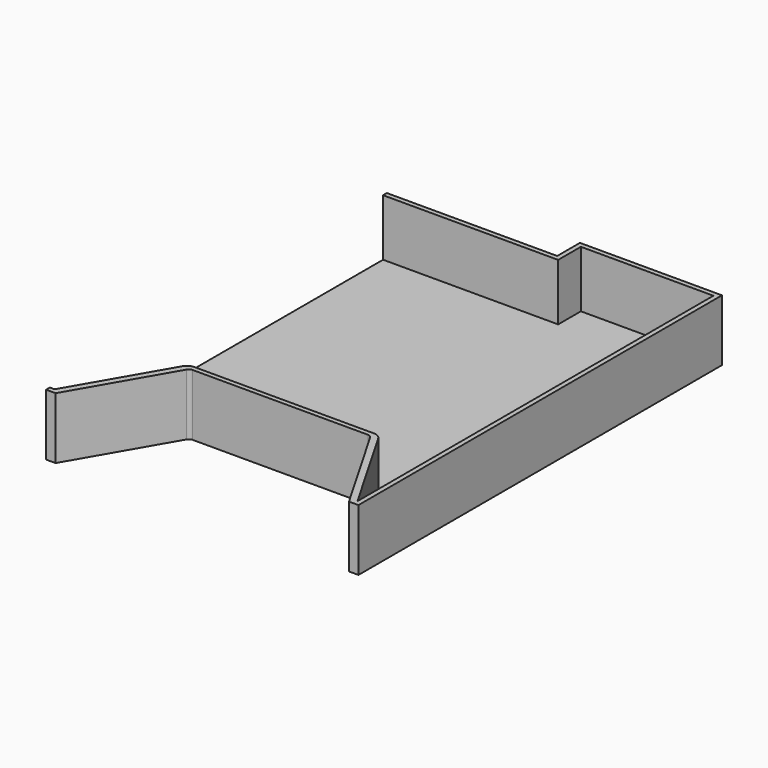
from build123d import *

# Parameters (mm, degrees)
F1_DEPTH = 165.1
F2_DEPTH = 12.7
F0_W     = 12.7
F0_H     = 1117.6
F3_DEPTH = 12.7


with BuildPart() as f1:
    # F0 (on Top) → F1 (new body)
    with BuildSketch(Plane.XY):
        with BuildLine():
            Line((342.9, -361.927737), (368.3, -361.927737))
            Line((368.3, -361.927737), (368.3, 857.272263))
            Line((368.3, 857.272263), (-12.7, 857.272263))
            Line((-12.7, 857.272263), (-12.7, 781.072263))
            Line((-12.7, 781.072263), (-469.9, 781.072263))
            Line((-469.9, 781.072263), (-469.9, 768.372263))
            Line((-469.9, 768.372263), (-457.2, 768.372263))
            Line((-457.2, 768.372263), (0, 768.372263))
            Line((0, 768.372263), (0, 819.172263))
            Line((0, 819.172263), (0, 844.572263))
            Line((0, 844.572263), (355.6, 844.572263))
            Line((355.6, 844.572263), (355.6, -349.227737))
            Line((355.6, -349.227737), (211.822605, -100.197983))
            ThreePointArc((211.822605, -100.197983), (202.52556, -90.900938), (189.82556, -87.497983))
            Line((189.82556, -87.497983), (-291.42556, -87.497983))
            ThreePointArc((-291.42556, -87.497983), (-304.12556, -90.900938), (-313.422605, -100.197983))
            Line((-313.422605, -100.197983), (-457.2, -349.227737))
            Line((-457.2, -349.227737), (-469.9, -349.227737))
            Line((-469.9, -349.227737), (-469.9, -361.927737))
            Line((-469.9, -361.927737), (-444.5, -361.927737))
            Line((-444.5, -361.927737), (-297.056431, -106.547983))
            ThreePointArc((-297.056431, -106.547983), (-292.407908, -101.899461), (-286.057908, -100.197983))
            Line((-286.057908, -100.197983), (184.457908, -100.197983))
            ThreePointArc((184.457908, -100.197983), (190.807908, -101.899461), (195.456431, -106.547983))
            Line((195.456431, -106.547983), (342.9, -361.927737))
        make_face()
    extrude(amount=F1_DEPTH)

    # F0 (on Top) → F2 (join)
    with BuildSketch(Plane.XY):
        with BuildLine():
            Line((0, 768.372263), (-457.2, 768.372263))
            Line((-457.2, 768.372263), (-457.2, -349.227737))
            Line((-457.2, -349.227737), (-313.422605, -100.197983))
            ThreePointArc((-313.422605, -100.197983), (-304.12556, -90.900938), (-291.42556, -87.497983))
            Line((-291.42556, -87.497983), (189.82556, -87.497983))
            ThreePointArc((189.82556, -87.497983), (202.52556, -90.900938), (211.822605, -100.197983))
            Line((211.822605, -100.197983), (355.6, -349.227737))
            Line((355.6, -349.227737), (355.6, 844.572263))
            Line((355.6, 844.572263), (0, 844.572263))
            Line((0, 844.572263), (0, 819.172263))
            Line((0, 819.172263), (0, 768.372263))
        make_face()
    extrude(amount=F2_DEPTH)

    # F0 (on Top) → F3 (join)
    with BuildSketch(Plane.XY):
        with Locations((-463.55, 209.572263)):
            Rectangle(F0_W, F0_H)
    extrude(amount=F3_DEPTH)


solid = f1.part
